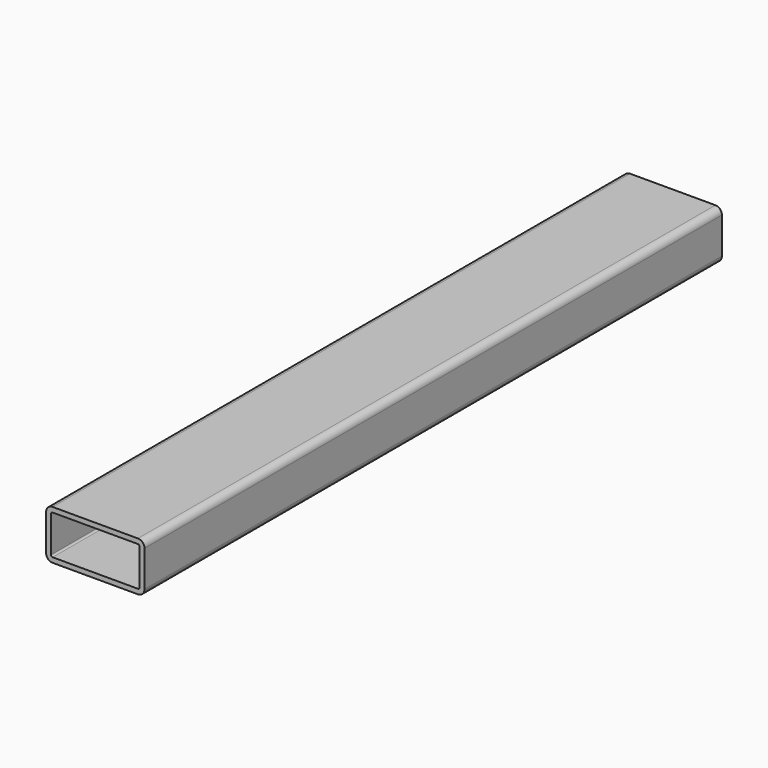
from build123d import *

# Parameters (mm, degrees)
F1_DEPTH = 220


with BuildPart() as f1:
    # F0 (on Front) → F1 (new body, symmetric)
    with BuildSketch(Plane.XZ):
        with BuildLine():
            ThreePointArc((30, 11), (28.828427, 13.828427), (26, 15))
            Line((26, 15), (-26, 15))
            ThreePointArc((-26, 15), (-28.828427, 13.828427), (-30, 11))
            Line((-30, 11), (-30, -11))
            ThreePointArc((-30, -11), (-28.828427, -13.828427), (-26, -15))
            Line((-26, -15), (26, -15))
            ThreePointArc((26, -15), (28.828427, -13.828427), (30, -11))
            Line((30, -11), (30, 11))
        make_face()
        with BuildLine():
            ThreePointArc((-27, 11), (-26.707107, 11.707107), (-26, 12))
            Line((-26, 12), (26, 12))
            ThreePointArc((26, 12), (26.707107, 11.707107), (27, 11))
            Line((27, 11), (27, -11))
            ThreePointArc((27, -11), (26.707107, -11.707107), (26, -12))
            Line((26, -12), (-26, -12))
            ThreePointArc((-26, -12), (-26.707107, -11.707107), (-27, -11))
            Line((-27, -11), (-27, 11))
        make_face(mode=Mode.SUBTRACT)
    extrude(amount=F1_DEPTH, both=True)


solid = f1.part
